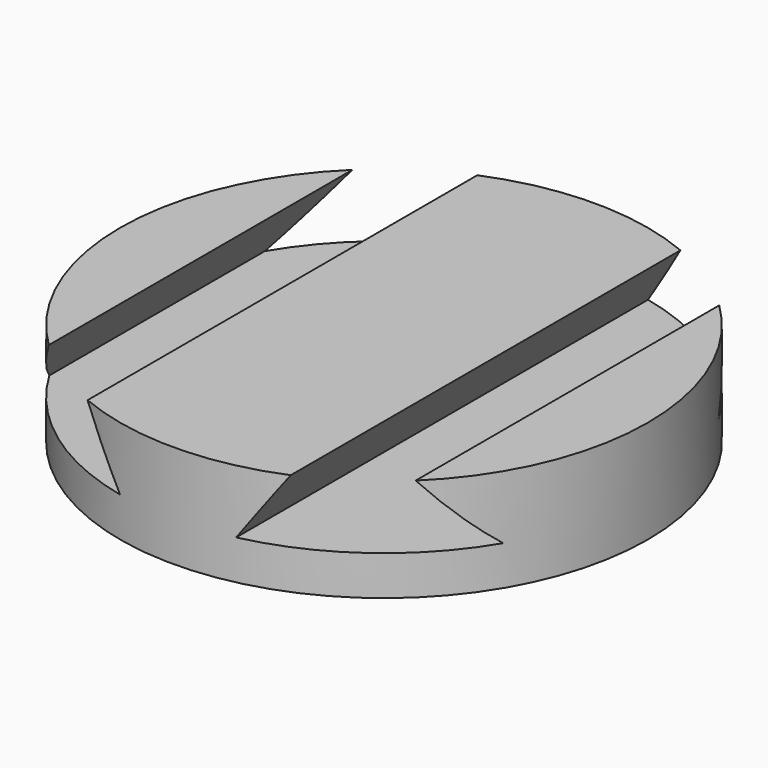
from build123d import *

# Parameters (mm, degrees)
F0_R     = 10
F1_DEPTH = 3.9
F4_DEPTH = 25
F5_DEPTH = 25


with BuildPart() as f1:
    # F0 (on Top) → F1 (new body)
    with BuildSketch(Plane.XY):
        Circle(F0_R)
    extrude(amount=F1_DEPTH)


with BuildPart() as f1_1:
    # F3: moved
    add(f1.part.moved(Location((0, 0, -2.5))))

    # F2 (on Front) → F4 (cut)
    with BuildSketch(Plane.XZ):
        Polygon((-2.2, -1), (-3.849474, 1.4), (-6.950526, 1.4), (-8.6, -1), align=None)
        Polygon((8.6, -1), (6.950526, 1.4), (3.849474, 1.4), (2.2, -1), align=None)
    extrude(amount=-F4_DEPTH, mode=Mode.SUBTRACT)

    # F4_face (on face) → F5 (cut)
    with BuildSketch(Plane(origin=(5.4, 0, 0.061112), x_dir=(1, 0, 0), z_dir=(0, 1, 0))):
        Polygon((1.550526, -1.338888), (3.2, 1.061112), (-3.2, 1.061112), (-1.550526, -1.338888), align=None)
        Polygon((-14, 1.061112), (-12.350526, -1.338888), (-9.249474, -1.338888), (-7.6, 1.061112), align=None)
    extrude(amount=-F5_DEPTH, mode=Mode.SUBTRACT)


solid = f1_1.part
